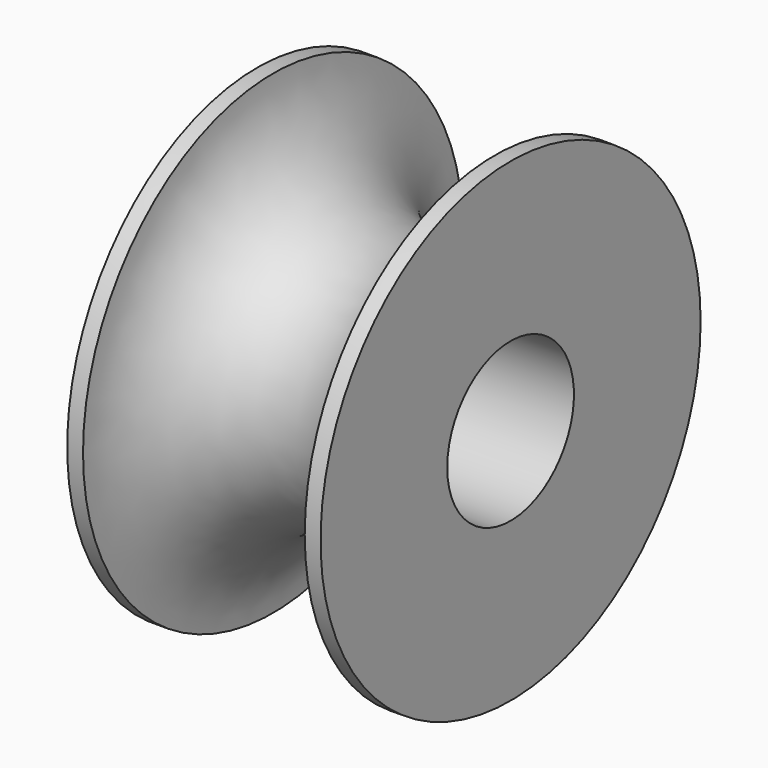
from build123d import *

# Parameters (mm, degrees)
F0_R     = 75
F1_DEPTH = 80
F2_R     = 25
F3_DEPTH = 100
F4_R     = 35


with BuildPart() as f1:
    # F0 (on Right) → F1 (new body)
    with BuildSketch(Plane.YZ):
        Circle(F0_R)
    extrude(amount=F1_DEPTH)

    # F2 (on face) → F3 (cut)
    with BuildSketch(Plane(origin=(0, 0, 0), x_dir=(0, -1, 0), z_dir=(-1, 0, 0))):
        Circle(F2_R)
    extrude(amount=-F3_DEPTH, mode=Mode.SUBTRACT)

    # F4 (on Top) → F5 (revolve, cut)
    with BuildSketch(Plane.XY):
        with Locations((40, -75)):
            Circle(F4_R)
    revolve(axis=Axis((0, 0, 0), (-1, 0, 0)), mode=Mode.SUBTRACT)


solid = f1.part
